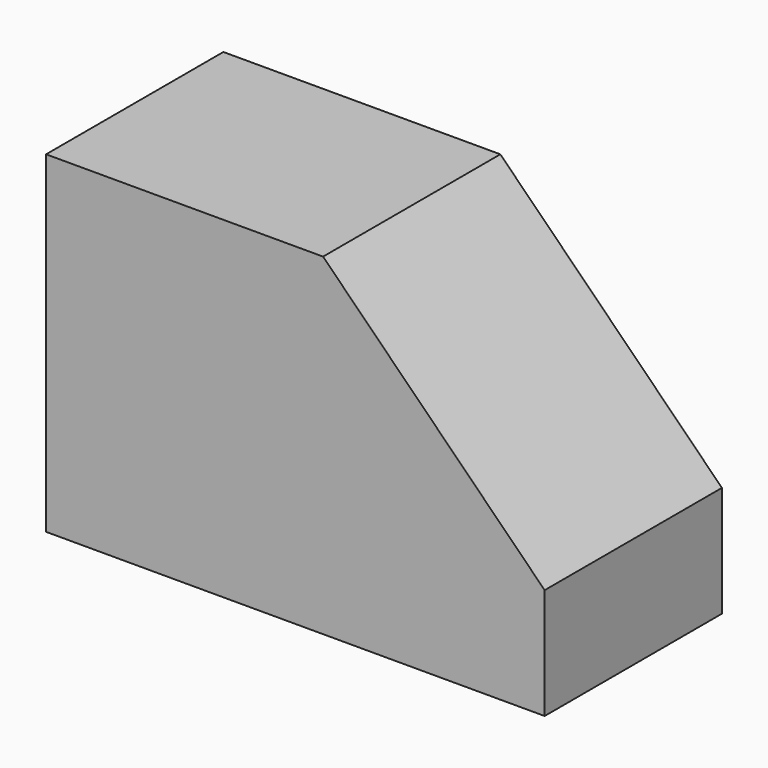
from build123d import *

# Parameters (mm, degrees)
F0_W     = 101.6
F0_H     = 50.8
F1_DEPTH = 101.6


with BuildPart() as f1:
    # F0 (on Front) → F1 (new body)
    with BuildSketch(Plane.XZ):
        Polygon((52.296527, 96.696837), (-74.703473, 96.696837), (-74.703473, -55.703163), (52.296527, -55.703163), (52.296527, -4.903163), align=None)
        Polygon((153.896527, -4.903163), (52.296527, 96.696837), (52.296527, -4.903163), align=None)
        with Locations((103.096527, -30.303163)):
            Rectangle(F0_W, F0_H)
    extrude(amount=F1_DEPTH)


solid = f1.part
